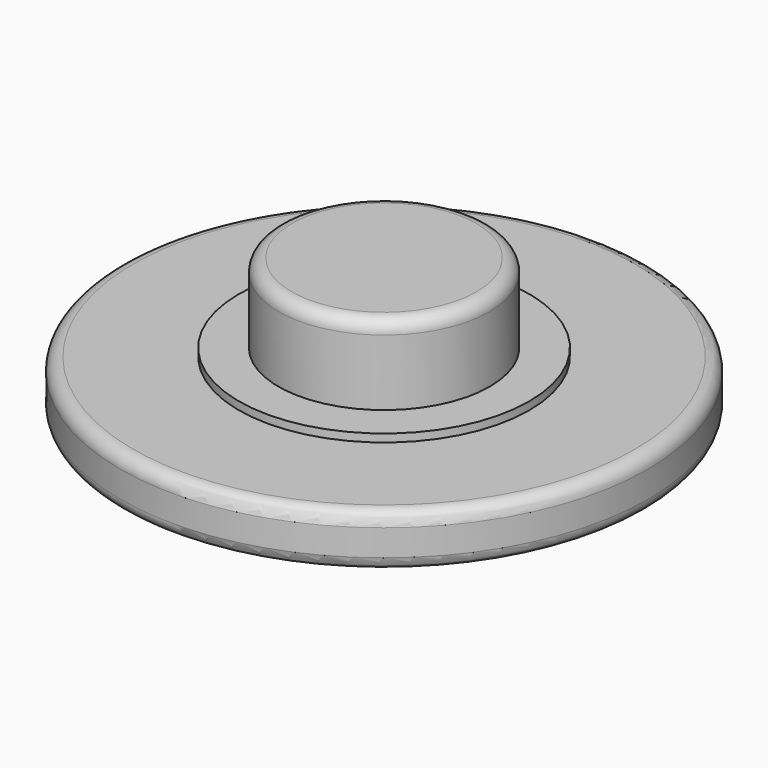
from build123d import *

# Parameters (mm, degrees)
F0_R     = 10
F1_DEPTH = 2
F2_R     = 5.5
F3_DEPTH = 0.3
F4_R     = 4
F5_DEPTH = 3
F6_R     = 0.5


with BuildPart() as f1:
    # F0 (on Top) → F1 (new body)
    with BuildSketch(Plane.XY):
        Circle(F0_R)
    extrude(amount=F1_DEPTH)

    # F2 (on face) → F3 (join)
    with BuildSketch(Plane.XY.offset(2)):
        Circle(F2_R)
    extrude(amount=F3_DEPTH)

    # F4 (on face) → F5 (join)
    with BuildSketch(Plane.XY.offset(2.3)):
        Circle(F4_R)
    extrude(amount=F5_DEPTH)

    # F6
    f6_edges = [f1.edges().sort_by_distance(p)[0] for p in [
        (-4, 0, 5.3),
        (-10, 0, 2),
        (-10, 0, 0),
    ]]
    fillet(f6_edges, radius=F6_R)


solid = f1.part
